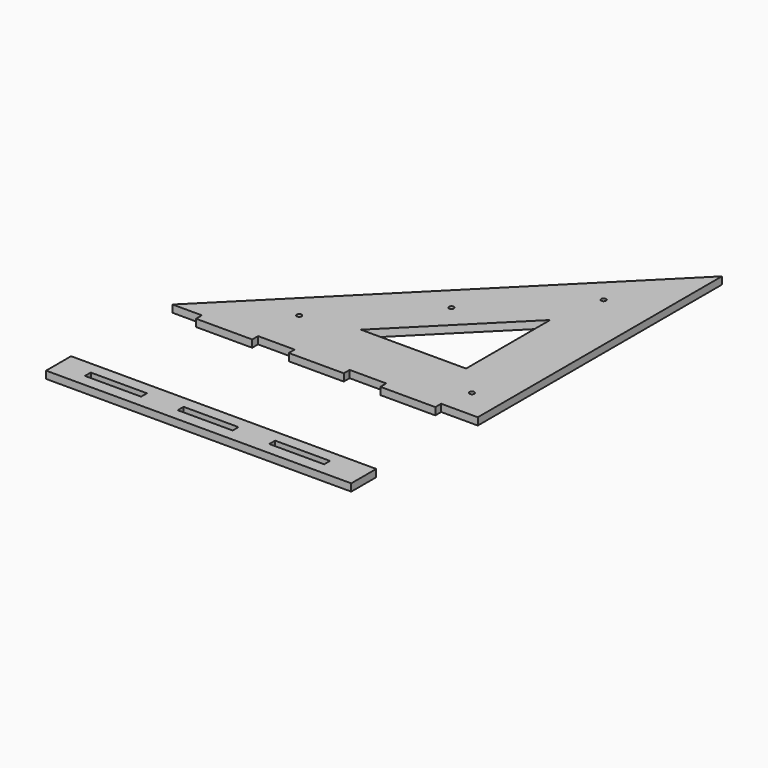
from build123d import *

# Parameters (mm, degrees)
F0_R     = 2
F1_DEPTH = 6
F0_W     = 250
F0_H     = 25.6
F0_W_2   = 46
F0_H_2   = 6
F0_W_3   = 45
F2_DEPTH = 6


with BuildPart() as f1:
    # F0 (on Top) → F1 (new body)
    with BuildSketch(Plane.XY):
        Polygon((30, 6), (30, 0), (76, 0), (76, 6), (106, 6), (106, 0), (151, 0), (151, 6), (181, 6), (181, 0), (226, 0), (226, 6), (256, 6), (256, 256), (6, 6), align=None)
        with Locations((78.674098, 44.732973)):
            Circle(F0_R, mode=Mode.SUBTRACT)
        with Locations((231.999911, 30.000089)):
            Circle(F0_R, mode=Mode.SUBTRACT)
        with Locations((147.970563, 114.029437)):
            Circle(F0_R, mode=Mode.SUBTRACT)
        Polygon((121.882251, 54), (208, 140.117749), (208, 54), align=None, mode=Mode.SUBTRACT)
        with Locations((217.267027, 183.325902)):
            Circle(F0_R, mode=Mode.SUBTRACT)
    extrude(amount=F1_DEPTH)


with BuildPart() as f2:
    # F0 (on Top) → F2 (new body)
    with BuildSketch(Plane.XY):
        with Locations((125, -103.284263)):
            Rectangle(F0_W, F0_H)
        with Locations((47, -103.284263)):
            Rectangle(F0_W_2, F0_H_2, mode=Mode.SUBTRACT)
        with Locations((122.5, -103.284263)):
            Rectangle(F0_W_3, F0_H_2, mode=Mode.SUBTRACT)
        with Locations((197.5, -103.284263)):
            Rectangle(F0_W_3, F0_H_2, mode=Mode.SUBTRACT)
    extrude(amount=F2_DEPTH)


solid = Compound([f1.part, f2.part])
